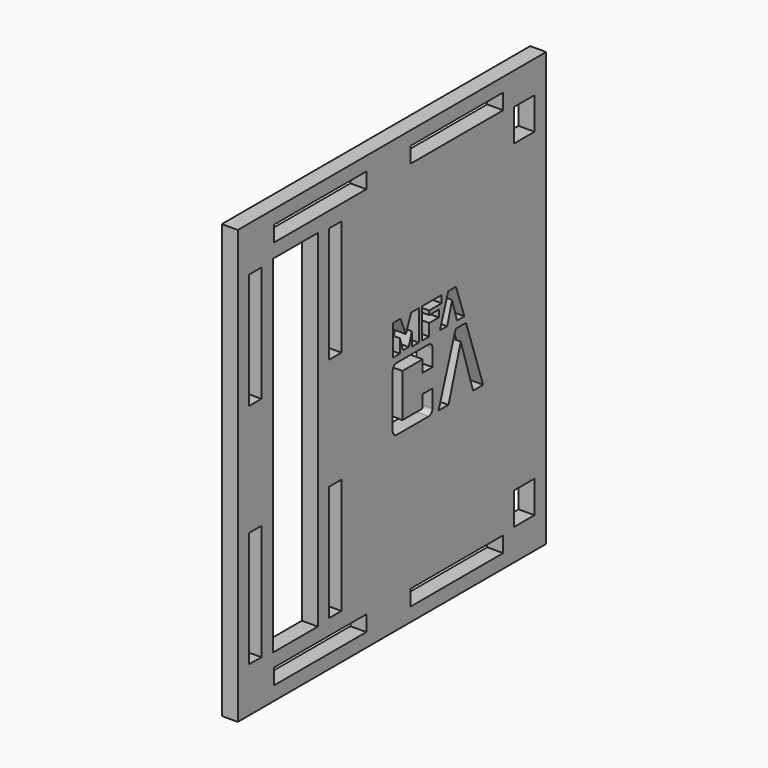
from build123d import *

# Parameters (mm, degrees)
F0_W     = 140
F0_H     = 157.3
F0_W_2   = 5.7
F0_H_2   = 42
F0_W_3   = 42
F0_H_3   = 5.7
F0_W_4   = 9.225
F0_H_4   = 11.7
F0_W_5   = 20.361793
F0_H_5   = 125.9
F1_DEPTH = 5.8


with BuildPart() as f1:
    # F0 (on Right) → F1 (new body)
    with BuildSketch(Plane.YZ):
        Rectangle(F0_W, F0_H)
        with Locations((-62.15, -41.3)):
            Rectangle(F0_W_2, F0_H_2, mode=Mode.SUBTRACT)
        with Locations((-32.65, -70.8)):
            Rectangle(F0_W_3, F0_H_3, mode=Mode.SUBTRACT)
        with Locations((-25.8, -41.3)):
            Rectangle(F0_W_2, F0_H_2, mode=Mode.SUBTRACT)
        with Locations((29.475, -70.8)):
            Rectangle(F0_W_3, F0_H_3, mode=Mode.SUBTRACT)
        with Locations((60.0875, -61.45)):
            Rectangle(F0_W_4, F0_H_4, mode=Mode.SUBTRACT)
        with BuildLine():
            ThreePointArc((18.376166, -14.378899), (17.848958, -15.651691), (16.576166, -16.178899))
            Line((16.576166, -16.178899), (2.137455, -16.178901))
            ThreePointArc((2.137455, -16.178901), (0.864663, -15.651693), (0.337455, -14.378901))
            Line((0.337455, -14.378901), (0.337455, 5.028724))
            ThreePointArc((0.337455, 5.028724), (0.864663, 6.301516), (2.137455, 6.828724))
            Line((2.137455, 6.828724), (16.576166, 6.828722))
            ThreePointArc((16.576166, 6.828722), (17.848958, 6.301515), (18.376166, 5.028722))
            Line((18.376166, 5.028722), (18.376166, -1.151716))
            Line((18.376166, -1.151716), (13.94928, -1.151716))
            Line((13.94928, -1.151716), (13.94928, 3.184902))
            Line((13.94928, 3.184902), (4.764341, 3.184902))
            Line((4.764341, 3.184902), (4.764341, -12.535078))
            Line((4.764341, -12.535078), (13.94928, -12.535078))
            Line((13.94928, -12.535078), (13.94928, -7.927517))
            Line((13.94928, -7.927517), (18.376166, -7.927517))
            Line((18.376166, -7.927517), (18.376166, -14.378899))
        make_face(mode=Mode.SUBTRACT)
        Polygon((25.663247, -16.178899), (21.146094, -16.118674), (28.915746, 6.828724), (33.613575, 6.828724), (41.383157, -16.118674), (36.835821, -16.178899), (31.234478, 1.799588), align=None, mode=Mode.SUBTRACT)
        with Locations((-43.830896, 0)):
            Rectangle(F0_W_5, F0_H_5, mode=Mode.SUBTRACT)
        with Locations((-62.15, 41.3)):
            Rectangle(F0_W_2, F0_H_2, mode=Mode.SUBTRACT)
        with Locations((-25.8, 41.3)):
            Rectangle(F0_W_2, F0_H_2, mode=Mode.SUBTRACT)
        with Locations((-32.65, 70.8)):
            Rectangle(F0_W_3, F0_H_3, mode=Mode.SUBTRACT)
        Polygon((3.574371, 9.207119), (0.365742, 9.207119), (0.365742, 20.249205), (3.834504, 20.249205), (6.320433, 14.323433), (8.734065, 20.249205), (12.173907, 20.249205), (12.173907, 9.207119), (9.008657, 9.207119), (9.008657, 14.135599), (7.606707, 9.684005), (4.976251, 9.684005), (3.574371, 14.135599), align=None, mode=Mode.SUBTRACT)
        Polygon((16.899532, 13.571955), (16.899532, 9.207119), (13.633134, 9.207119), (13.633134, 20.249205), (22.536252, 20.249205), (22.536252, 17.589901), (16.899532, 17.589901), (16.899532, 16.086803), (21.264368, 16.086803), (21.264368, 13.571955), align=None, mode=Mode.SUBTRACT)
        Polygon((25.065139, 9.207119), (21.740973, 9.236038), (25.556555, 20.249205), (29.039706, 20.249205), (32.855358, 9.236038), (29.502273, 9.207119), (27.290936, 16.722745), align=None, mode=Mode.SUBTRACT)
        with Locations((29.475, 70.8)):
            Rectangle(F0_W_3, F0_H_3, mode=Mode.SUBTRACT)
        with Locations((60.0875, 61.15)):
            Rectangle(F0_W_4, F0_H_4, mode=Mode.SUBTRACT)
    extrude(amount=F1_DEPTH)


solid = f1.part
